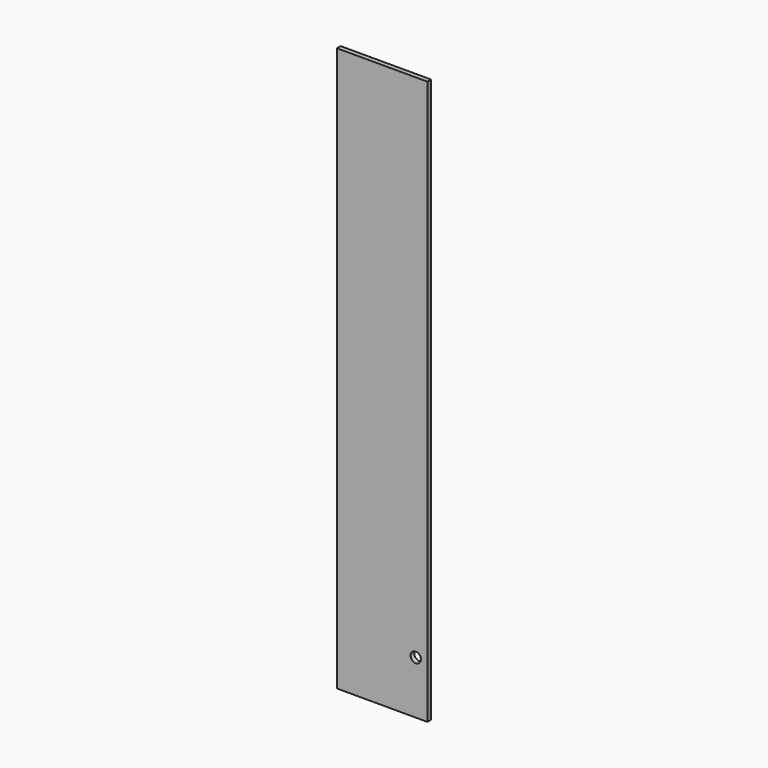
from build123d import *

# Parameters (mm, degrees)
F0_W     = 350
F0_H     = 2180
F1_DEPTH = 9
F2_R     = 20
F3_DEPTH = 25


with BuildPart() as f1:
    # F0 (on Front) → F1 (new body, symmetric)
    with BuildSketch(Plane.XZ):
        Rectangle(F0_W, F0_H)
    extrude(amount=F1_DEPTH, both=True)

    # F2 (on face) → F3 (cut)
    with BuildSketch(Plane.XZ.offset(9)):
        with Locations((130, -885)):
            Circle(F2_R)
    extrude(amount=-F3_DEPTH, mode=Mode.SUBTRACT)


solid = f1.part
